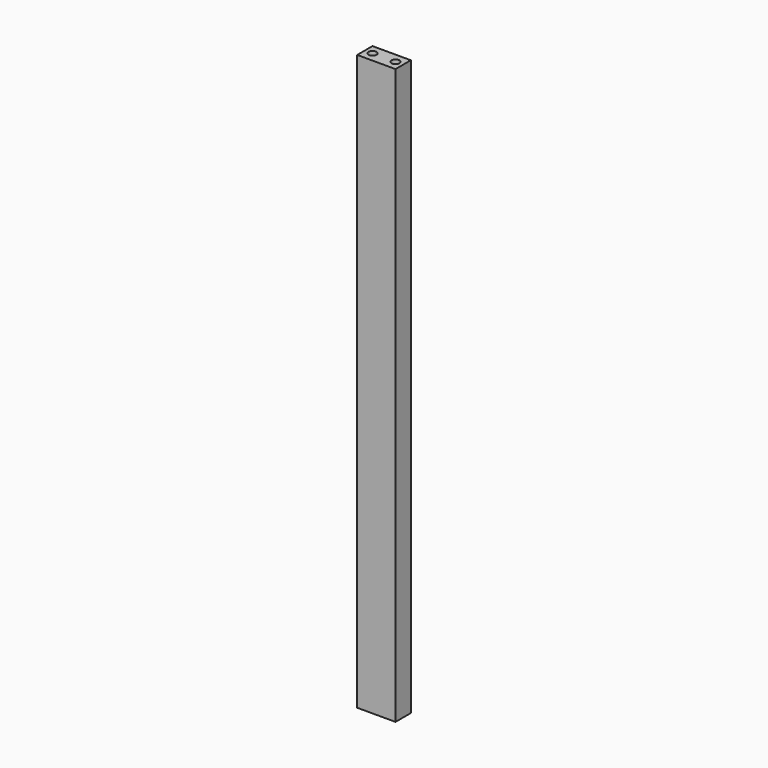
from build123d import *

# Parameters (mm, degrees)
F0_W     = 20
F0_H     = 300
F1_DEPTH = 10
F3_D     = 4.2
F3_DEPTH = 15.8
F3_TIP   = 1.2618073
F5_D     = 4.2
F5_DEPTH = 15.8
F5_TIP   = 1.2618073


with BuildPart() as f1:
    # F0 (on Front) → F1 (new body)
    with BuildSketch(Plane.XZ):
        Rectangle(F0_W, F0_H)
    extrude(amount=F1_DEPTH)

    # F3
    with Locations(Plane(origin=(0, 0, -150), x_dir=(1, 0, 0), z_dir=(0, 0, -1))):
        with Locations((-6, 5), (6, 5)):
            Hole(F3_D / 2, depth=F3_DEPTH)
            with Locations((0, 0, -(F3_DEPTH + F3_TIP / 2))):  # 118° drill point
                Cone(0, F3_D / 2, F3_TIP, mode=Mode.SUBTRACT)

    # F5
    with Locations(Plane.XY.offset(150)):
        with Locations((6, -5), (-6, -5)):
            Hole(F5_D / 2, depth=F5_DEPTH)
            with Locations((0, 0, -(F5_DEPTH + F5_TIP / 2))):  # 118° drill point
                Cone(0, F5_D / 2, F5_TIP, mode=Mode.SUBTRACT)


solid = f1.part
